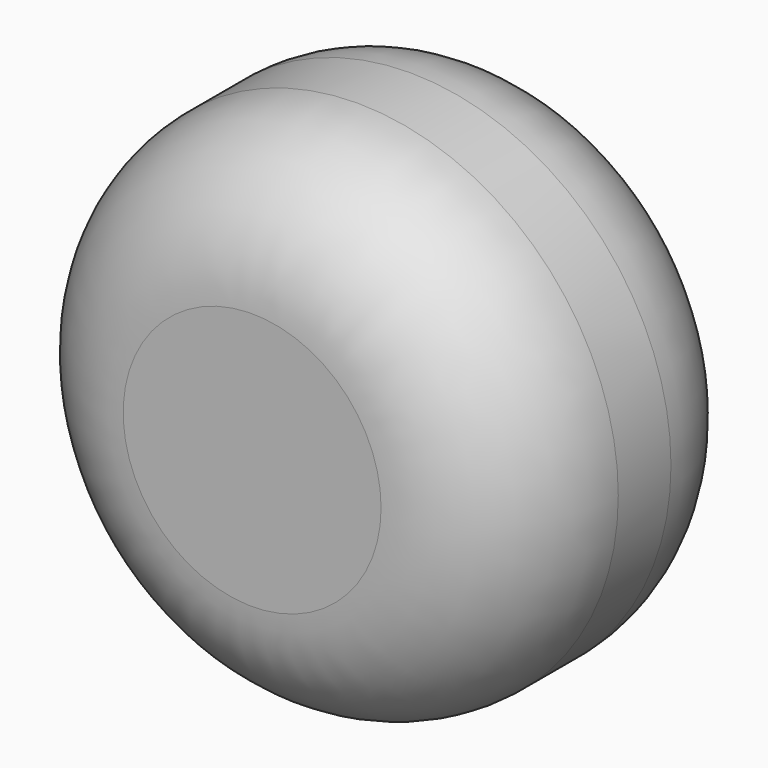
from build123d import *

# Parameters (mm, degrees)
F0_R     = 40.202645
F1_DEPTH = 50.8
F2_R     = 20.32


with BuildPart() as f1:
    # F0 (on Front) → F1 (new body)
    with BuildSketch(Plane.XZ):
        with Locations((-16.994964, 12.412053)):
            Circle(F0_R)
    extrude(amount=F1_DEPTH)

    # F2
    f2_edges = [f1.edges().sort_by_distance(p)[0] for p in [
        (23.20768, -25.4, 12.412053),
        (-57.197609, 0, 12.412053),
        (-57.197609, -50.8, 12.412053),
    ]]
    fillet(f2_edges, radius=F2_R)


solid = f1.part
